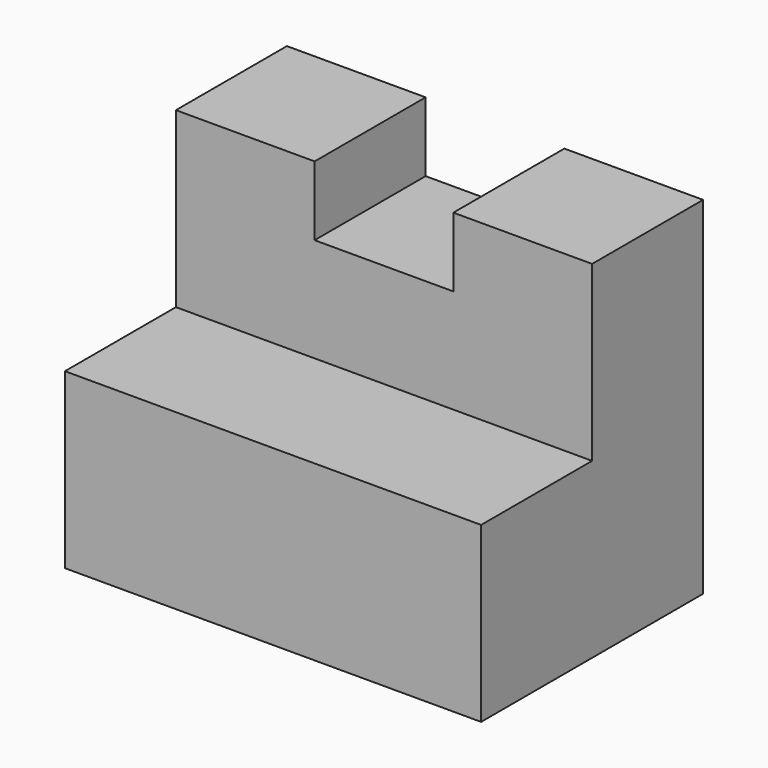
from build123d import *

# Parameters (mm, degrees)
F1_DEPTH = 25.4
F3_DEPTH = 12.7


with BuildPart() as f1:
    # F0 (on Front) → F1 (new body)
    with BuildSketch(Plane.XZ):
        Polygon((0, 31.75), (0, 0), (38.1, 0), (38.1, 31.75), (25.4, 31.75), (25.4, 25.4), (12.7, 25.4), (12.7, 31.75), align=None)
    extrude(amount=F1_DEPTH)

    # F2 (on face) → F3 (cut)
    with BuildSketch(Plane.XZ.offset(25.4)):
        Polygon((0, 31.75), (0, 15.875), (38.1, 15.875), (38.1, 31.75), (25.4, 31.75), (25.4, 25.4), (12.7, 25.4), (12.7, 31.75), align=None)
    extrude(amount=-F3_DEPTH, mode=Mode.SUBTRACT)


solid = f1.part
